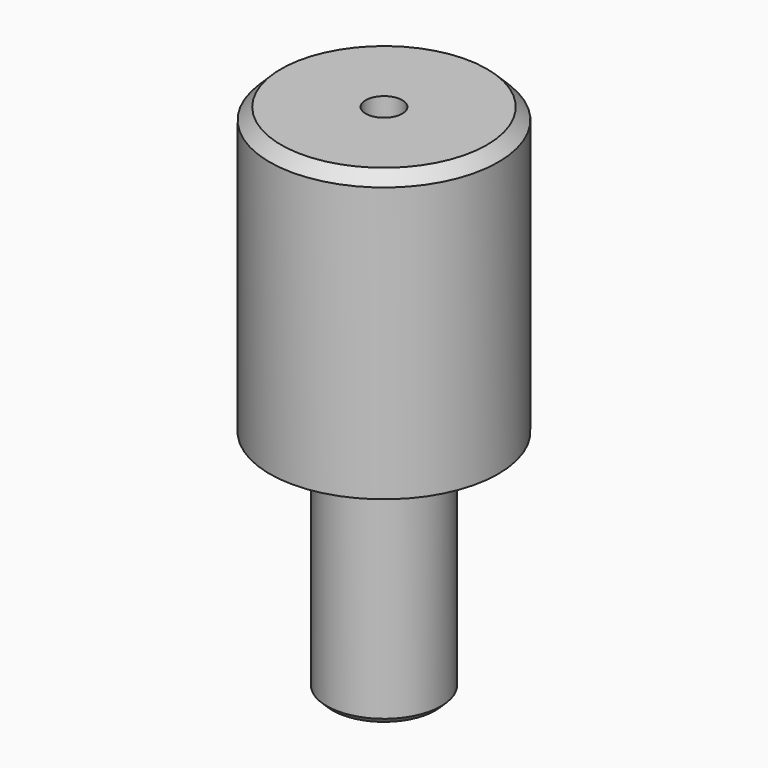
from build123d import *

# Parameters (mm, degrees)
F0_R     = 10
F1_DEPTH = 25
F2_SIZE  = 1
F3_R     = 5
F4_DEPTH = 20
F5_SIZE  = 0.5
F6_R     = 1.6
F7_DEPTH = 45.001


with BuildPart() as f1:
    # F0 (on Top) → F1 (new body)
    with BuildSketch(Plane.XY):
        Circle(F0_R)
    extrude(amount=F1_DEPTH)

    # F2
    f2_edges = [f1.edges().sort_by_distance(p)[0] for p in [
        (-10, 0, 25),
    ]]
    chamfer(f2_edges, length=F2_SIZE)

    # F3 (on face) → F4 (join)
    with BuildSketch(Plane(origin=(0, 0, 0), x_dir=(1, 0, 0), z_dir=(0, 0, -1))):
        Circle(F3_R)
    extrude(amount=F4_DEPTH)

    # F5
    f5_edges = [f1.edges().sort_by_distance(p)[0] for p in [
        (-5, 0, -20),
    ]]
    chamfer(f5_edges, length=F5_SIZE)

    # F6 (on face) → F7 (cut, through all)
    with BuildSketch(Plane.XY.offset(25)):
        Circle(F6_R)
    extrude(amount=-F7_DEPTH, mode=Mode.SUBTRACT)


solid = f1.part
